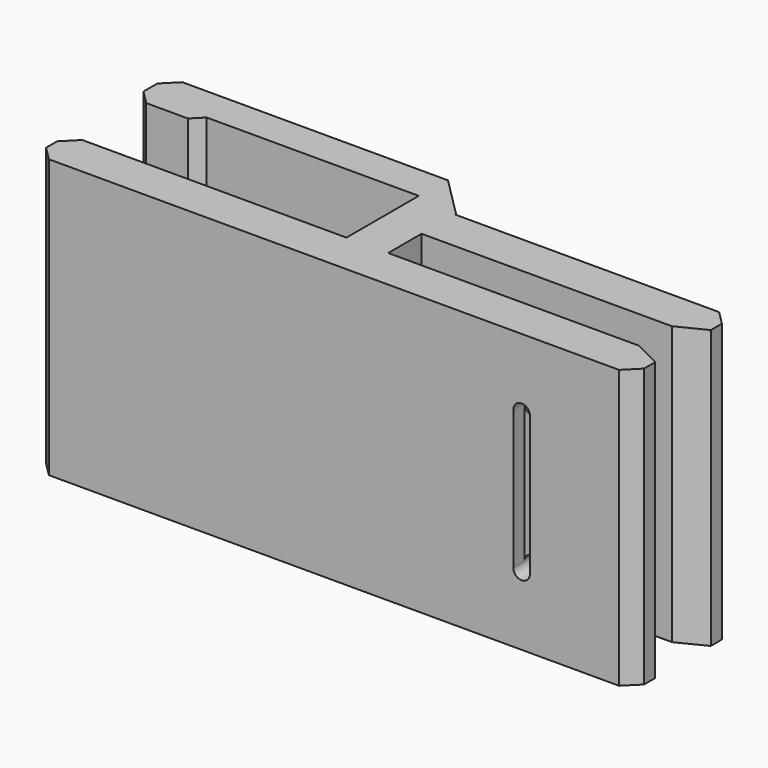
from build123d import *

# Parameters (mm, degrees)
BOX051028_W               = 1.2
BOX051028_H               = 1
BOX051028_DEPTH           = 10
CYLINDER036_R             = 0.6
CYLINDER036_DEPTH         = 10
BOX051029_W               = 1.2
BOX051029_H               = 1
BOX051029_DEPTH           = 10
CYLINDER035_R             = 0.6
CYLINDER035_DEPTH         = 10
BOX051024_W               = 20
BOX051024_H               = 2.5
BOX051024_DEPTH           = 20
CHAMFER034005002019_SIZE  = 1
CHAMFER034005002022_SIZE  = 1
BOX051027_W               = 5
BOX051027_H               = 3.25
BOX051027_DEPTH           = 20
CHAMFER034005002018_SIZE  = 1
CHAMFER034005002021_SIZE  = 1
CHAMFER034005002023_SIZE  = 1
BOX051023_W               = 43
BOX051023_H               = 3
BOX051023_DEPTH           = 20
CHAMFER034005002020_SIZE  = 1
CHAMFER034005002024_SIZE  = 1
CHAMFER034005002027_SIZE2 = 2
CHAMFER034005002027_SIZE  = 1
BOX051025_W               = 20
BOX051025_H               = 3
BOX051025_DEPTH           = 20
CHAMFER034005002025_SIZE  = 1
CHAMFER034005002026_SIZE2 = 2
CHAMFER034005002026_SIZE  = 1
BOX051026_W               = 3
BOX051026_H               = 9
BOX051026_DEPTH           = 20
CHAMFER034005002017_SIZE  = 2.9


with BuildPart() as cube085:
    # Box051028 → Box051028 (new body)
    with BuildSketch(Plane(origin=(34.4, 0, 5), x_dir=(1, 0, 0), z_dir=(0, 0, 1))):
        with Locations((0.6, 0.5)):
            Rectangle(BOX051028_W, BOX051028_H)
    extrude(amount=BOX051028_DEPTH)


with BuildPart() as cylinder036:
    # Cylinder036 → Cylinder036 (new body)
    with BuildSketch(Plane(origin=(35, 0, 15), x_dir=(1, 0, 0), z_dir=(0, 1, 0))):
        Circle(CYLINDER036_R)
    extrude(amount=CYLINDER036_DEPTH)


with BuildPart() as cube086:
    # Box051029 → Box051029 (new body)
    with BuildSketch(Plane(origin=(34.4, 8, 5), x_dir=(1, 0, 0), z_dir=(0, 0, 1))):
        with Locations((0.6, 0.5)):
            Rectangle(BOX051029_W, BOX051029_H)
    extrude(amount=BOX051029_DEPTH)


with BuildPart() as fusion021005009010:
    # Cylinder035 → Cylinder035 (new body)
    with BuildSketch(Plane(origin=(35, 0, 5), x_dir=(1, 0, 0), z_dir=(0, 1, 0))):
        Circle(CYLINDER035_R)
    extrude(amount=CYLINDER035_DEPTH)

    # Fusion021005009010: union Cube085, Cylinder036, Cube086
    add(cube085.part)
    add(cylinder036.part)
    add(cube086.part)


with BuildPart() as chamfer034005002022:
    # Box051024 → Box051024 (new body)
    with BuildSketch(Plane(origin=(0, 9.5, 0), x_dir=(1, 0, 0), z_dir=(0, 0, 1))):
        with Locations((10, 1.25)):
            Rectangle(BOX051024_W, BOX051024_H)
    extrude(amount=BOX051024_DEPTH)

    # Chamfer034005002019
    chamfer034005002019_edges = [chamfer034005002022.edges().sort_by_distance(p)[0] for p in [
        (0, 9.5, 10),
    ]]
    chamfer(chamfer034005002019_edges, length=CHAMFER034005002019_SIZE)

    # Chamfer034005002022
    chamfer034005002022_edges = [chamfer034005002022.edges().sort_by_distance(p)[0] for p in [
        (0, 12, 10),
    ]]
    chamfer(chamfer034005002022_edges, length=CHAMFER034005002022_SIZE)


with BuildPart() as chamfer034005002023:
    # Box051027 → Box051027 (new body)
    with BuildSketch(Plane(origin=(0, 8.75, 0), x_dir=(1, 0, 0), z_dir=(0, 0, 1))):
        with Locations((2.5, 1.625)):
            Rectangle(BOX051027_W, BOX051027_H)
    extrude(amount=BOX051027_DEPTH)

    # Chamfer034005002018
    chamfer034005002018_edges = [chamfer034005002023.edges().sort_by_distance(p)[0] for p in [
        (0, 8.75, 10),
    ]]
    chamfer(chamfer034005002018_edges, length=CHAMFER034005002018_SIZE)

    # Chamfer034005002021
    chamfer034005002021_edges = [chamfer034005002023.edges().sort_by_distance(p)[0] for p in [
        (0, 12, 10),
    ]]
    chamfer(chamfer034005002021_edges, length=CHAMFER034005002021_SIZE)

    # Chamfer034005002023
    chamfer034005002023_edges = [chamfer034005002023.edges().sort_by_distance(p)[0] for p in [
        (5, 8.75, 10),
    ]]
    chamfer(chamfer034005002023_edges, length=CHAMFER034005002023_SIZE)


with BuildPart() as chamfer034005002027:
    # Box051023 → Box051023 (new body)
    with BuildSketch(Plane.XY):
        with Locations((21.5, 1.5)):
            Rectangle(BOX051023_W, BOX051023_H)
    extrude(amount=BOX051023_DEPTH)

    # Chamfer034005002020
    chamfer034005002020_edges = [chamfer034005002027.edges().sort_by_distance(p)[0] for p in [
        (0, 0, 10),
        (0, 3, 10),
    ]]
    chamfer(chamfer034005002020_edges, length=CHAMFER034005002020_SIZE)

    # Chamfer034005002024
    chamfer034005002024_edges = [chamfer034005002027.edges().sort_by_distance(p)[0] for p in [
        (43, 0, 10),
    ]]
    chamfer(chamfer034005002024_edges, length=CHAMFER034005002024_SIZE)

    # Chamfer034005002027
    chamfer034005002027_edges = [chamfer034005002027.edges().sort_by_distance(p)[0] for p in [
        (43, 3, 10),
    ]]
    chamfer034005002027_side = chamfer034005002027.faces().sort_by_distance((43, 2, 10))[0]
    chamfer(chamfer034005002027_edges, length=CHAMFER034005002027_SIZE, length2=CHAMFER034005002027_SIZE2, reference=chamfer034005002027_side)


with BuildPart() as chamfer034005002026:
    # Box051025 → Box051025 (new body)
    with BuildSketch(Plane(origin=(23, 6, 0), x_dir=(1, 0, 0), z_dir=(0, 0, 1))):
        with Locations((10, 1.5)):
            Rectangle(BOX051025_W, BOX051025_H)
    extrude(amount=BOX051025_DEPTH)

    # Chamfer034005002025
    chamfer034005002025_edges = [chamfer034005002026.edges().sort_by_distance(p)[0] for p in [
        (43, 9, 10),
    ]]
    chamfer(chamfer034005002025_edges, length=CHAMFER034005002025_SIZE)

    # Chamfer034005002026
    chamfer034005002026_edges = [chamfer034005002026.edges().sort_by_distance(p)[0] for p in [
        (43, 6, 10),
    ]]
    chamfer034005002026_side = chamfer034005002026.faces().sort_by_distance((43, 7, 10))[0]
    chamfer(chamfer034005002026_edges, length=CHAMFER034005002026_SIZE, length2=CHAMFER034005002026_SIZE2, reference=chamfer034005002026_side)


with BuildPart() as cut018011002007:
    # Box051026 → Box051026 (new body)
    with BuildSketch(Plane(origin=(20, 3, 0), x_dir=(1, 0, 0), z_dir=(0, 0, 1))):
        with Locations((1.5, 4.5)):
            Rectangle(BOX051026_W, BOX051026_H)
    extrude(amount=BOX051026_DEPTH)

    # Chamfer034005002017
    chamfer034005002017_edges = [cut018011002007.edges().sort_by_distance(p)[0] for p in [
        (23, 12, 10),
    ]]
    chamfer(chamfer034005002017_edges, length=CHAMFER034005002017_SIZE)

    # Fusion021005009009: union Chamfer034005002022, Chamfer034005002023, Chamfer034005002027, Chamfer034005002026
    add(chamfer034005002022.part)
    add(chamfer034005002023.part)
    add(chamfer034005002027.part)
    add(chamfer034005002026.part)

    # Cut018011002007: cut Fusion021005009010
    add(fusion021005009010.part, mode=Mode.SUBTRACT)


solid = cut018011002007.part
